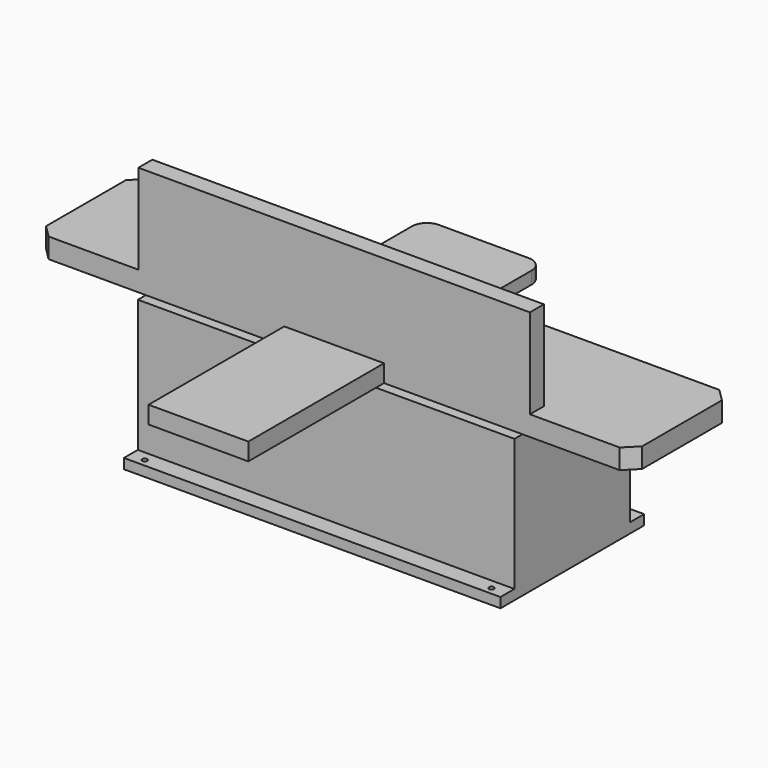
from build123d import *

# Parameters (mm, degrees)
F0_W      = 479.425
F0_H      = 228.6
F1_DEPTH  = 12.7
F2_R      = 3.175
F3_DEPTH  = 12.701
F4_W      = 479.425
F4_H      = 184.15
F5_DEPTH  = 168.275
F6_W      = 758.825
F6_H      = 158.75
F7_DEPTH  = 25.4
F8_W      = 498.475
F8_H      = 22.225
F9_DEPTH  = 114.3
F10_W     = 127
F10_H     = 22.225
F11_DEPTH = 215.9
F12_SIZE  = 15.875
F14_DEPTH = 15.875


with BuildPart() as f1:
    # F0 (on Top) → F1 (new body)
    with BuildSketch(Plane.XY):
        Rectangle(F0_W, F0_H)
    extrude(amount=F1_DEPTH)

    # F2 (on face) → F3 (cut, through all)
    with BuildSketch(Plane(origin=(0, 0, 0), x_dir=(1, 0, 0), z_dir=(0, 0, -1))):
        with Locations((220.6625, -104.775)):
            Circle(F2_R)
        with Locations((-220.6625, -104.775)):
            Circle(F2_R)
        with Locations((220.6625, 104.775)):
            Circle(F2_R)
        with Locations((-220.6625, 104.775)):
            Circle(F2_R)
    extrude(amount=-F3_DEPTH, mode=Mode.SUBTRACT)

    # F4 (on face) → F5 (join)
    with BuildSketch(Plane.XY.offset(12.7)):
        Rectangle(F4_W, F4_H)
    extrude(amount=F5_DEPTH)

    # F6 (on face) → F7 (join)
    with BuildSketch(Plane.XY.offset(180.975)):
        Rectangle(F6_W, F6_H)
    extrude(amount=F7_DEPTH)

    # F8 (on face) → F9 (join)
    with BuildSketch(Plane.XY.offset(206.375)):
        with Locations((0, -68.2625)):
            Rectangle(F8_W, F8_H)
    extrude(amount=F9_DEPTH)

    # F10 (on face) → F11 (join)
    with BuildSketch(Plane.XZ.offset(79.375)):
        with Locations((0, 192.0875)):
            Rectangle(F10_W, F10_H)
    extrude(amount=F11_DEPTH)

    # F12
    f12_edges = [f1.edges().sort_by_distance(p)[0] for p in [
        (-379.4125, 79.375, 193.675),
        (-379.4125, -79.375, 193.675),
        (379.4125, -79.375, 193.675),
        (379.4125, 79.375, 193.675),
    ]]
    chamfer(f12_edges, length=F12_SIZE)

    # F13 (on face) → F14 (join)
    with BuildSketch(Plane.XY.offset(206.375)):
        with BuildLine():
            ThreePointArc((-76.2, -38.1), (-70.620384, -51.570384), (-57.15, -57.15))
            Line((-57.15, -57.15), (57.15, -57.15))
            ThreePointArc((57.15, -57.15), (70.620384, -51.570384), (76.2, -38.1))
            Line((76.2, -38.1), (76.2, 139.7))
            ThreePointArc((76.2, 139.7), (70.620384, 153.170384), (57.15, 158.75))
            Line((57.15, 158.75), (-57.15, 158.75))
            ThreePointArc((-57.15, 158.75), (-70.620384, 153.170384), (-76.2, 139.7))
            Line((-76.2, 139.7), (-76.2, -38.1))
        make_face()
    extrude(amount=F14_DEPTH)


solid = f1.part
